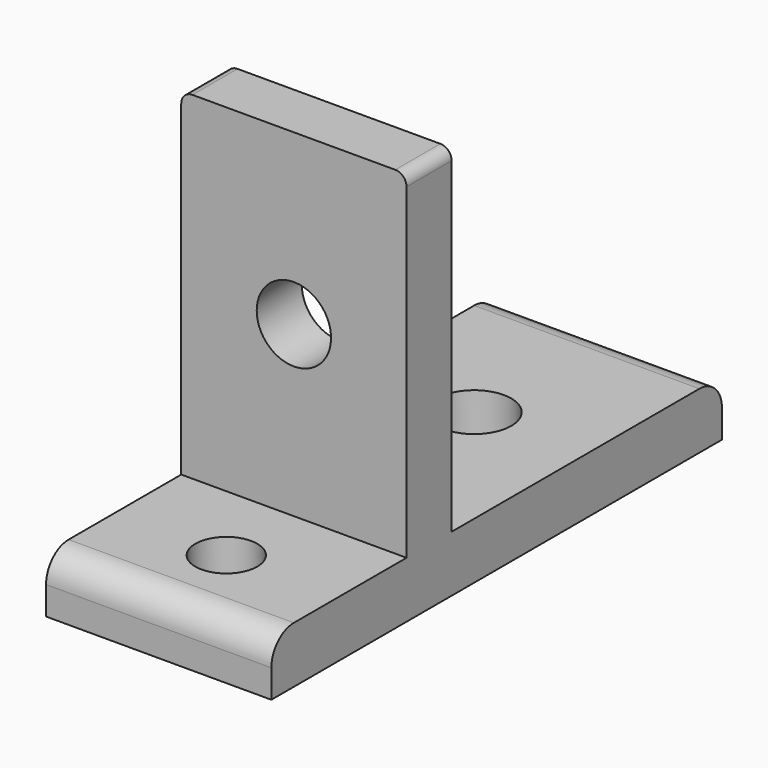
from build123d import *

# Parameters (mm, degrees)
F0_W     = 20
F0_H     = 50
F1_DEPTH = 5
F2_W     = 5
F2_H     = 8
F3_DEPTH = 5
F4_R     = 1
F6_D     = 6.6
F7_W     = 20
F7_H     = 5
F8_DEPTH = 30
F9_R     = 1
F11_D    = 6.6
F13_D    = 5.5
F14_R    = 2.5


with BuildPart() as f1:
    # F0 (on Top) → F1 (new body)
    with BuildSketch(Plane.XY):
        Rectangle(F0_W, F0_H)
    extrude(amount=F1_DEPTH)

    # F2 (on face) → F3 (join)
    with BuildSketch(Plane(origin=(0, 0, 0), x_dir=(1, 0, 0), z_dir=(0, 0, -1))):
        with Locations((0, -20)):
            Rectangle(F2_W, F2_H)
        with Locations((0, 5)):
            Rectangle(F2_W, F2_H)
    extrude(amount=F3_DEPTH)

    # F4
    f4_edges = [f1.edges().sort_by_distance(p)[0] for p in [
        (2.5, 20, -5),
        (-2.5, 20, -5),
        (0, 24, -5),
        (0, 16, -5),
        (0, -1, -5),
        (-2.5, -5, -5),
        (0, -9, -5),
        (2.5, -5, -5),
    ]]
    fillet(f4_edges, radius=F4_R)

    # F6 (through all)
    with Locations(Plane(origin=(0, 0, 0), x_dir=(1, 0, 0), z_dir=(0, 0, -1))):
        with Locations((0, -10)):
            Hole(F6_D / 2)

    # F7 (on face) → F8 (join)
    with BuildSketch(Plane.XY.offset(5)):
        with Locations((0, -7.5)):
            Rectangle(F7_W, F7_H)
    extrude(amount=F8_DEPTH)

    # F9
    f9_edges = [f1.edges().sort_by_distance(p)[0] for p in [
        (10, -7.5, 35),
        (-10, -7.5, 35),
    ]]
    fillet(f9_edges, radius=F9_R)

    # F11 (through all)
    with Locations(Plane.XZ.offset(10)):
        with Locations((0, 20)):
            Hole(F11_D / 2)

    # F13 (through all)
    with Locations(Plane.XY.offset(5)):
        with Locations((0, -17.5)):
            Hole(F13_D / 2)

    # F14
    f14_edges = [f1.edges().sort_by_distance(p)[0] for p in [
        (0, 25, 5),
        (0, -25, 5),
    ]]
    fillet(f14_edges, radius=F14_R)


solid = f1.part
